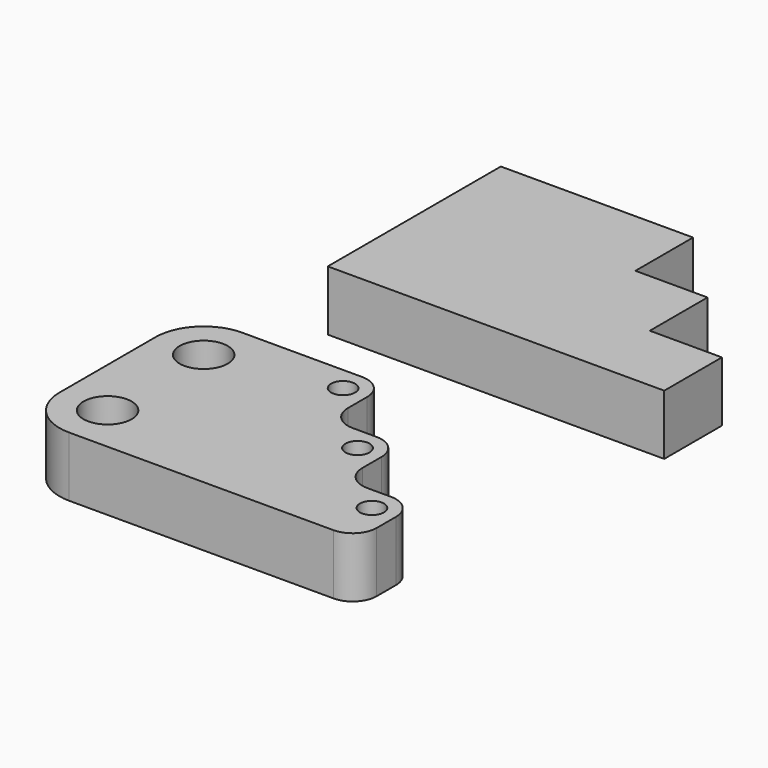
from build123d import *

# Parameters (mm, degrees)
F0_R     = 10
F0_R_2   = 5
F1_DEPTH = 25


with BuildPart() as f1:
    # F0 (on Top) → F1 (new body)
    with BuildSketch(Plane.XY):
        Polygon((-40.412791, 93.367726), (-40.412791, 3.367726), (99.587209, 3.367726), (99.587209, 33.367726), (69.587209, 33.367726), (69.587209, 63.367726), (39.587209, 63.367726), (39.587209, 93.367726), align=None)
        with BuildLine():
            ThreePointArc((-33.011425, -50.41058), (-47.15356, -56.268444), (-53.011425, -70.41058))
            Line((-53.011425, -70.41058), (-53.011425, -120.41058))
            ThreePointArc((-53.011425, -120.41058), (-47.15356, -134.552716), (-33.011425, -140.41058))
            Line((-33.011425, -140.41058), (76.988575, -140.41058))
            ThreePointArc((76.988575, -140.41058), (84.059643, -137.481648), (86.988575, -130.41058))
            Line((86.988575, -130.41058), (86.988575, -120.41058))
            ThreePointArc((86.988575, -120.41058), (84.059643, -113.339512), (76.988575, -110.41058))
            Line((76.988575, -110.41058), (66.988575, -110.41058))
            ThreePointArc((66.988575, -110.41058), (59.917507, -107.481648), (56.988575, -100.41058))
            Line((56.988575, -100.41058), (56.988575, -90.41058))
            ThreePointArc((56.988575, -90.41058), (54.059643, -83.339512), (46.988575, -80.41058))
            Line((46.988575, -80.41058), (36.988575, -80.41058))
            ThreePointArc((36.988575, -80.41058), (29.917507, -77.481648), (26.988575, -70.41058))
            Line((26.988575, -70.41058), (26.988575, -60.41058))
            ThreePointArc((26.988575, -60.41058), (24.059643, -53.339512), (16.988575, -50.41058))
            Line((16.988575, -50.41058), (-33.011425, -50.41058))
        make_face()
        with Locations((-33.011425, -120.41058)):
            Circle(F0_R, mode=Mode.SUBTRACT)
        with Locations((-33.011425, -70.41058)):
            Circle(F0_R, mode=Mode.SUBTRACT)
        with Locations((16.988575, -60.41058)):
            Circle(F0_R_2, mode=Mode.SUBTRACT)
        with Locations((46.988575, -90.41058)):
            Circle(F0_R_2, mode=Mode.SUBTRACT)
        with Locations((76.988575, -120.41058)):
            Circle(F0_R_2, mode=Mode.SUBTRACT)
    extrude(amount=F1_DEPTH)


solid = f1.part
